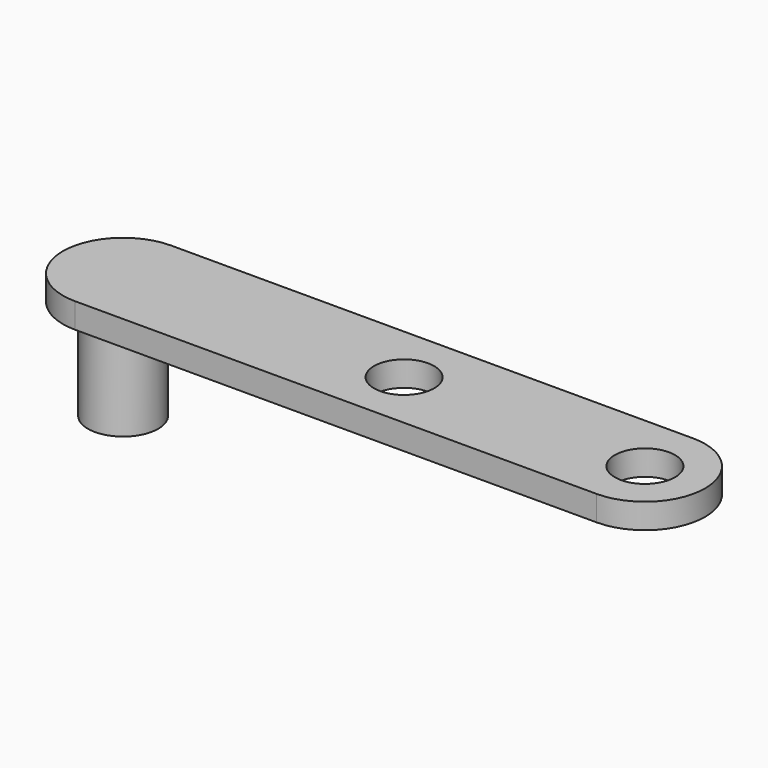
from build123d import *

# Parameters (mm, degrees)
F0_R     = 2.778125
F1_DEPTH = 1.984375
F2_DEPTH = 7.9375
F3_D     = 4.7625
F3_DEPTH = 12.7


with BuildPart() as f1:
    # F0 (on Top) → F1 (new body)
    with BuildSketch(Plane.XY):
        with BuildLine():
            Line((41.275, 4.7625), (0, 4.7625))
            ThreePointArc((0, 4.7625), (-4.7625, 0), (0, -4.7625))
            Line((0, -4.7625), (41.275, -4.7625))
            ThreePointArc((41.275, -4.7625), (46.0375, 0), (41.275, 4.7625))
        make_face()
        Circle(F0_R, mode=Mode.SUBTRACT)
        Circle(F0_R)
    extrude(amount=F1_DEPTH)

    # F0 (on Top) → F2 (join)
    with BuildSketch(Plane.XY):
        Circle(F0_R)
    extrude(amount=-F2_DEPTH)

    # F3
    with Locations(Plane(origin=(0, 0, 0), x_dir=(1, 0, 0), z_dir=(0, 0, -1))):
        with Locations((22.225, 0), (41.275, 0)):
            Hole(F3_D / 2, depth=F3_DEPTH)


solid = f1.part
